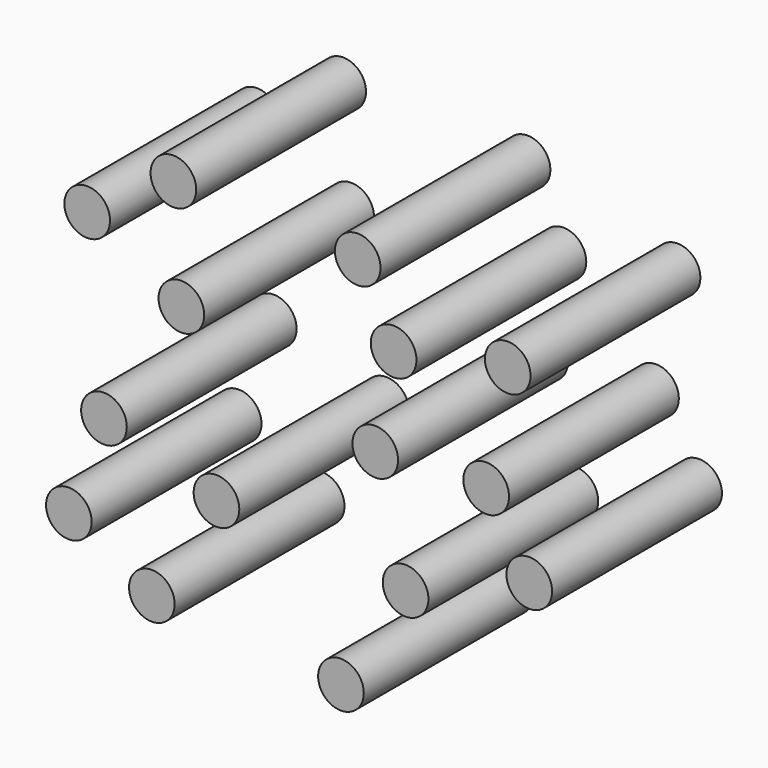
from build123d import *

# Parameters (mm, degrees)
F0_R     = 5.461
F1_DEPTH = 50.8


with BuildPart() as f1:
    # F0 (on Front) → F1 (new body)
    with BuildSketch(Plane.XZ):
        with Locations((25.110539, 32.175861)):
            Circle(F0_R)
        with Locations((16.51758, 48.788913)):
            Circle(F0_R)
        with Locations((-27.592948, 50.889418)):
            Circle(F0_R)
        with Locations((-25.683401, 25.110537)):
            Circle(F0_R)
        with Locations((-48.216049, 37.713546)):
            Circle(F0_R)
        with Locations((-17.281396, -13.080394)):
            Circle(F0_R)
        with Locations((-44.206005, -4.487434)):
            Circle(F0_R)
        with Locations((-32.748722, -38.095452)):
            Circle(F0_R)
        with Locations((-52.608009, -27.211038)):
            Circle(F0_R)
        with Locations((12.50753, -42.105503)):
            Circle(F0_R)
        with Locations((27.974857, -17.281396)):
            Circle(F0_R)
        with Locations((20.71858, 9.64321)):
            Circle(F0_R)
        with Locations((47.261279, 10.597984)):
            Circle(F0_R)
        with Locations((52.417051, 37.713546)):
            Circle(F0_R)
        with Locations((57.57283, -6.015072)):
            Circle(F0_R)
    extrude(amount=F1_DEPTH)


solid = f1.part
